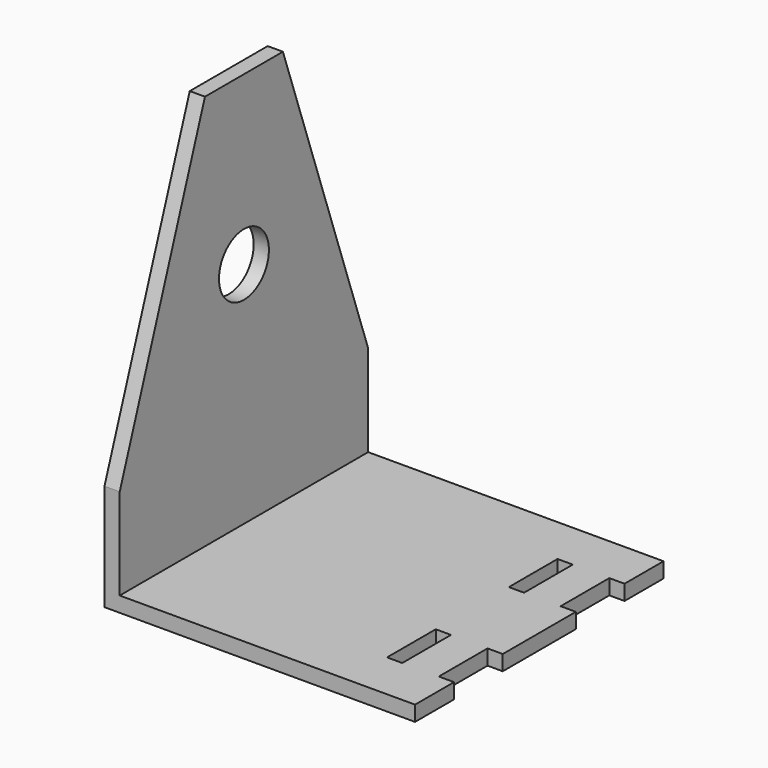
from build123d import *

# Parameters (mm, degrees)
F0_W       = 5
F0_H       = 16
F0_W_2     = 12
F0_H_2     = 30
F0_H_3     = 20
F1_DEPTH   = 5
F0_H_4     = 102
F2_DEPTH   = 135
F3_SIZE2   = 35
F3_SIZE    = 100
F3_2_SIZE2 = 35
F3_2_SIZE  = 100
F5_D       = 20.5


with BuildPart() as f1:
    # F0 (on Top) → F1 (new body)
    with BuildSketch(Plane.XY):
        Polygon((29, 35), (29, 51), (-46, 51), (-46, -51), (29, -51), (29, -35), (29, -15), (29, 15), align=None)
        with Locations((31.5, 43)):
            Rectangle(F0_W, F0_H)
        with Locations((40, 43)):
            Rectangle(F0_W_2, F0_H)
        with Locations((31.5, 0)):
            Rectangle(F0_W, F0_H_2)
        with Locations((40, 0)):
            Rectangle(F0_W_2, F0_H_2)
        with Locations((31.5, -43)):
            Rectangle(F0_W, F0_H)
        with Locations((40, -25)):
            Rectangle(F0_W_2, F0_H_3)
        with Locations((40, 25)):
            Rectangle(F0_W_2, F0_H_3)
        Polygon((51, -51), (51, -35), (46, -35), (34, -35), (34, -51), align=None)
        with Locations((48.5, 43)):
            Rectangle(F0_W, F0_H)
        with Locations((48.5, 0)):
            Rectangle(F0_W, F0_H_2)
    extrude(amount=F1_DEPTH)

    # F0 (on Top) → F2 (join)
    with BuildSketch(Plane.XY):
        with Locations((-48.5, 0)):
            Rectangle(F0_W, F0_H_4)
    extrude(amount=F2_DEPTH)

    # F3
    f3_edges = [f1.edges().sort_by_distance(p)[0] for p in [
        (-48.5, -51, 135),
    ]]
    f3_side = f1.faces().sort_by_distance((49.307989, -51, 2.5))[0]
    chamfer(f3_edges, length=F3_SIZE, length2=F3_SIZE2, reference=f3_side)

    # F3#2
    f3_2_edges = [f1.edges().sort_by_distance(p)[0] for p in [
        (-48.5, 51, 135),
    ]]
    f3_2_side = f1.faces().sort_by_distance((49.307989, 51, 2.5))[0]
    chamfer(f3_2_edges, length=F3_2_SIZE, length2=F3_2_SIZE2, reference=f3_2_side)

    # F5 (through all)
    with Locations(Plane(origin=(-51, 0, 0), x_dir=(0, -1, 0), z_dir=(-1, 0, 0))):
        with Locations((0, 80)):
            Hole(F5_D / 2)


solid = f1.part
